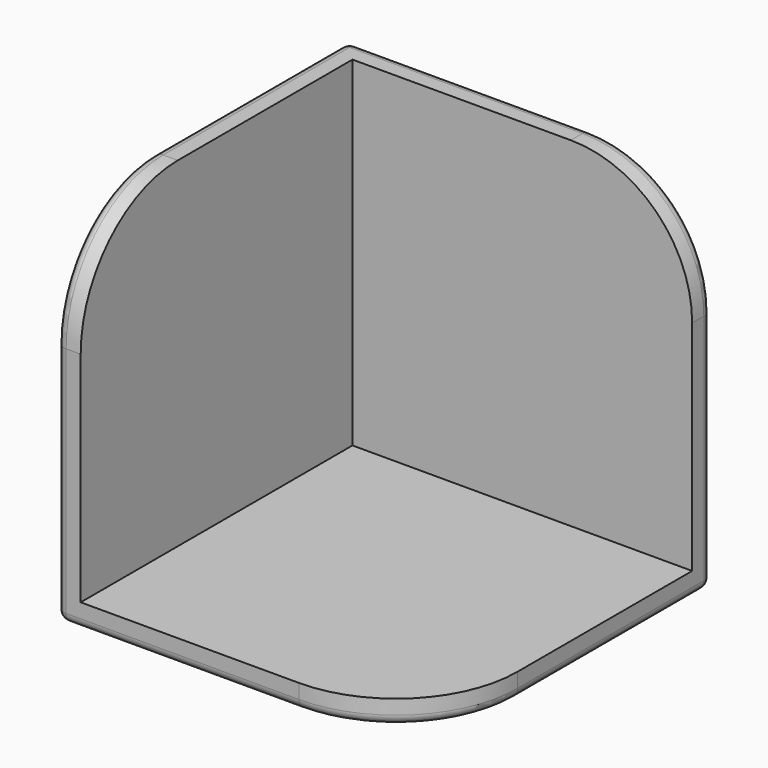
from build123d import *

# Parameters (mm, degrees)
F0_W     = 75
F0_H     = 75
F1_DEPTH = 5
F2_W     = 70
F2_H     = 5
F3_DEPTH = 70
F4_R     = 25
F5_R     = 2


with BuildPart() as f1:
    # F0 (on Top) → F1 (new body)
    with BuildSketch(Plane.XY):
        Rectangle(F0_W, F0_H)
    extrude(amount=F1_DEPTH)

    # F2 (on face) → F3 (join)
    with BuildSketch(Plane.XY.offset(5)):
        Polygon((-32.5, 37.5), (-37.5, 37.5), (-37.5, -37.5), (-32.5, -37.5), (-32.5, 32.5), align=None)
        with Locations((2.5, 35)):
            Rectangle(F2_W, F2_H)
    extrude(amount=F3_DEPTH)

    # F4
    f4_edges = [f1.edges().sort_by_distance(p)[0] for p in [
        (37.5, 35, 75),
        (-35, -37.5, 75),
        (37.5, -37.5, 2.5),
    ]]
    fillet(f4_edges, radius=F4_R)

    # F5
    f5_edges = [f1.edges().sort_by_distance(p)[0] for p in [
        (-12.5, -37.5, 0),
        (30.17767, -30.17767, 0),
        (-37.5, 0, 0),
        (37.5, 12.5, 0),
        (0, 37.5, 0),
        (-37.5, 12.5, 75),
        (-37.5, -30.17767, 67.67767),
        (-37.5, 37.5, 37.5),
        (-37.5, -37.5, 25),
        (37.5, 37.5, 25),
        (30.17767, 37.5, 67.67767),
        (-12.5, 37.5, 75),
    ]]
    fillet(f5_edges, radius=F5_R)


solid = f1.part
